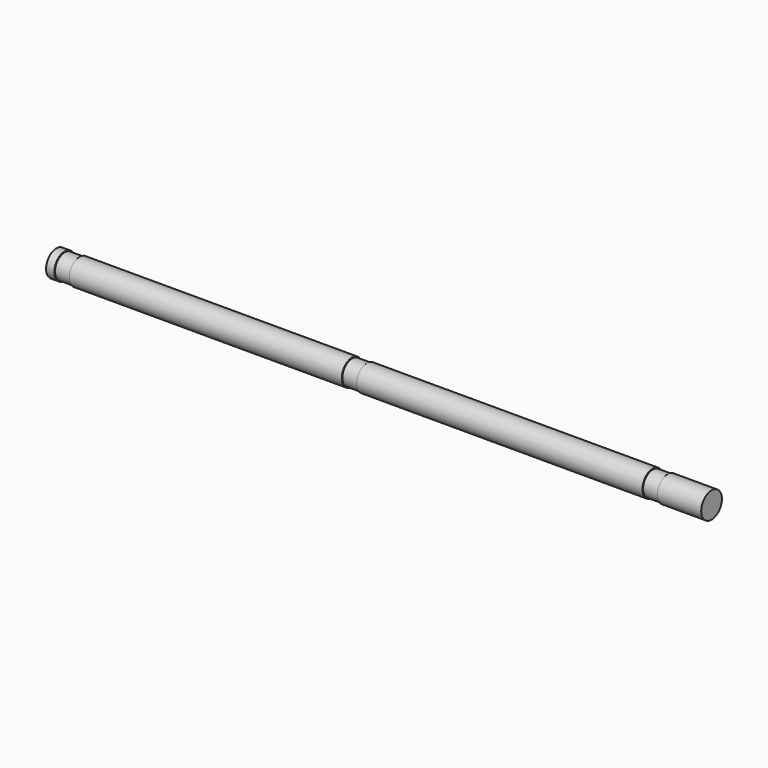
from build123d import *

# Parameters (mm, degrees)
F0_R     = 3.96875
F1_DEPTH = 200.914
F2_W     = 4.572
F2_H     = 0.24765


with BuildPart() as f1:
    # F0 (on Right) → F1 (new body)
    with BuildSketch(Plane.YZ):
        Circle(F0_R)
    extrude(amount=F1_DEPTH)

    # F2 (on Front) → F3 (revolve, cut)
    with BuildSketch(Plane.XZ):
        with Locations((185.166, 3.844925)):
            Rectangle(F2_W, F2_H)
        with Locations((92.964, 3.844925)):
            Rectangle(F2_W, F2_H)
        with Locations((4.826, 3.844925)):
            Rectangle(F2_W, F2_H)
    revolve(axis=Axis((98.498309, 0, 0), (1, 0, 0)), mode=Mode.SUBTRACT)


solid = f1.part
